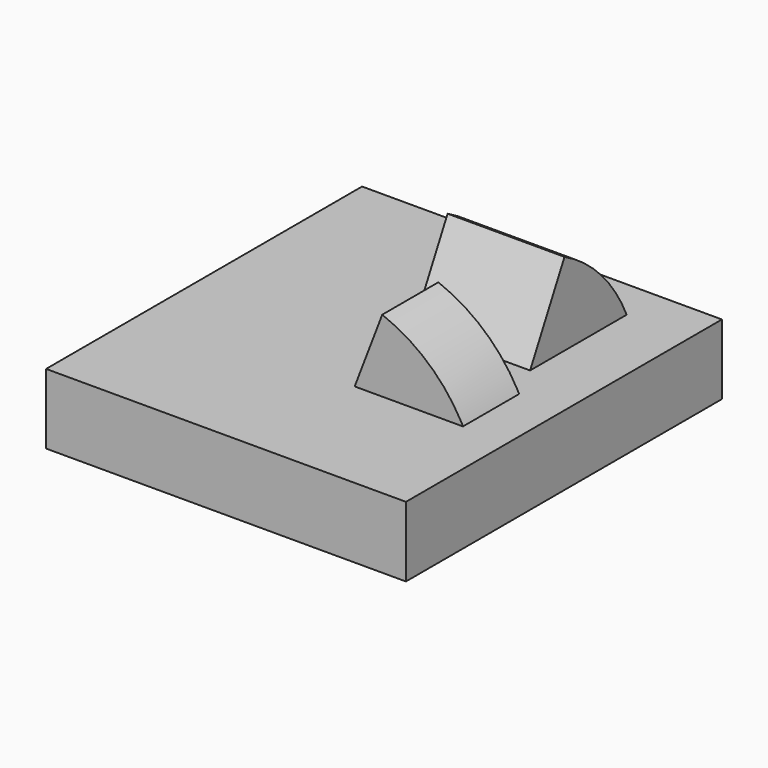
from build123d import *

# Parameters (mm, degrees)
F0_W     = 19.547974
F0_H     = 21.456248
F1_DEPTH = 3.81
F3_DEPTH = 6.35
F5_DEPTH = 3.81


with BuildPart() as f1:
    # F0 (on Top) → F1 (new body)
    with BuildSketch(Plane.XY):
        Rectangle(F0_W, F0_H)
    extrude(amount=F1_DEPTH)

    # F2 (on Right) → F3 (join)
    with BuildSketch(Plane.YZ):
        with BuildLine():
            ThreePointArc((9.350387, 0), (7.993799, 4.850661), (4.317672, 8.29382))
            Line((4.317672, 8.29382), (0, 0))
            Line((0, 0), (9.350387, 0))
        make_face()
    extrude(amount=F3_DEPTH)


with BuildPart() as f5:
    # F4 (on Front) → F5 (new body)
    with BuildSketch(Plane.XZ):
        with BuildLine():
            ThreePointArc((8.273909, 0), (6.814833, 4.692081), (2.952212, 7.729296))
            Line((2.952212, 7.729296), (0, 0))
            Line((0, 0), (8.273909, 0))
        make_face()
    extrude(amount=F5_DEPTH)


solid = Compound([f1.part, f5.part])
